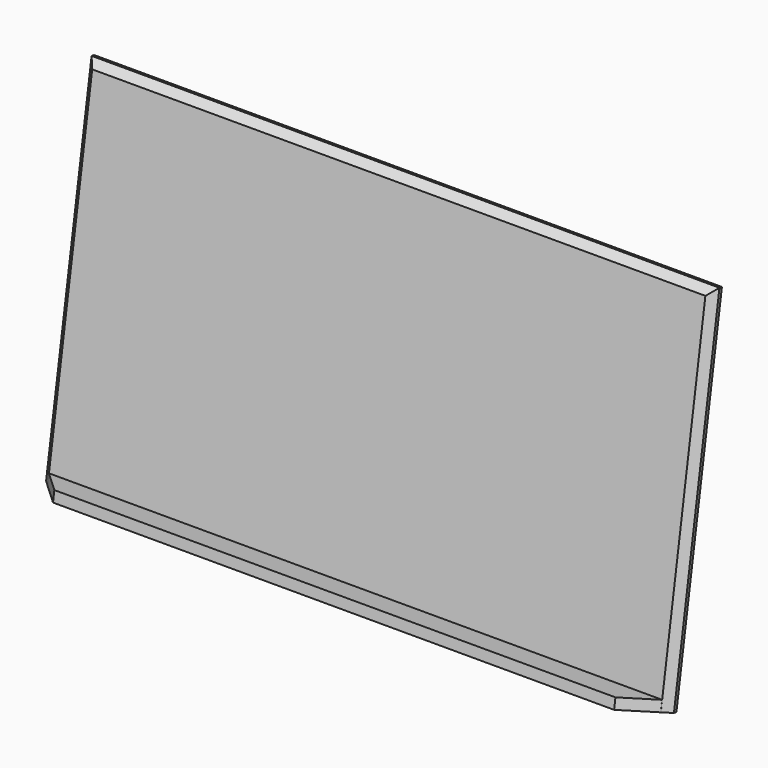
from build123d import *

# Parameters (mm, degrees)
SKETCH_W               = 600
SKETCH_H               = 340
PAD_DEPTH              = 10
CHAMFER_SIZE           = 7
SKETCH001_W            = 586
SKETCH001_H            = 10
PAD001_DEPTH           = 25
CHAMFER001_SIZE        = 24.9
FUSION_PLACEMENT_ANGLE = 9.2
PAD002_DEPTH           = 10


with BuildPart() as obj1:
    # Sketch → Pad (new body)
    with BuildSketch(Plane.XZ):
        with Locations((0, 170)):
            Rectangle(SKETCH_W, SKETCH_H)
    extrude(amount=PAD_DEPTH)

    # Chamfer
    chamfer_edges = [obj1.edges().sort_by_distance(p)[0] for p in [
        (-300, -10, 170),
        (0, -10, 340),
        (300, -10, 170),
    ]]
    chamfer(chamfer_edges, length=CHAMFER_SIZE)


with BuildPart() as fusion:
    # Sketch001 → Pad001 (new body)
    with BuildSketch(Plane.XZ):
        with Locations((0, 5)):
            Rectangle(SKETCH001_W, SKETCH001_H)
    extrude(amount=PAD001_DEPTH)

    # Chamfer001
    chamfer001_edges = [fusion.edges().sort_by_distance(p)[0] for p in [
        (293, -25, 5),
        (-293, -25, 5),
    ]]
    chamfer(chamfer001_edges, length=CHAMFER001_SIZE)


with BuildPart() as fusion_1:
    # Body001 placement: moved
    add(fusion.part.moved(Location((0, -10, 0))))

    # Fusion: union obj1
    add(obj1.part)


with BuildPart() as fusion_2:
    # Fusion placement: moved
    add(fusion_1.part.rotate(Axis((0, 0, 0), (-1, 0, 0)), FUSION_PLACEMENT_ANGLE))


with BuildPart() as support:
    # Sketch002 → Pad002 (new body)
    with BuildSketch(Plane.YZ):
        with BuildLine():
            Line((0, 0), (33.025851, 203.41))
            ThreePointArc((36.974149, 203.41), (35, 205.089475), (33.025851, 203.41))
            Line((36.974149, 203.41), (70, 0))
            Line((70, 0), (0, 0))
        make_face()
    extrude(amount=PAD002_DEPTH)


with BuildPart() as support_1:
    # Body002 placement: moved
    add(support.part.moved(Location((180, 0, 0))))


with BuildPart() as part_mirroring:
    # Part__Mirroring: instance of support
    add(support_1.part.mirror(Plane(origin=(0, 0, 0), x_dir=(0, -1, 0), z_dir=(1, 0, 0))))


solid = Compound([fusion_2.part, part_mirroring.part])
